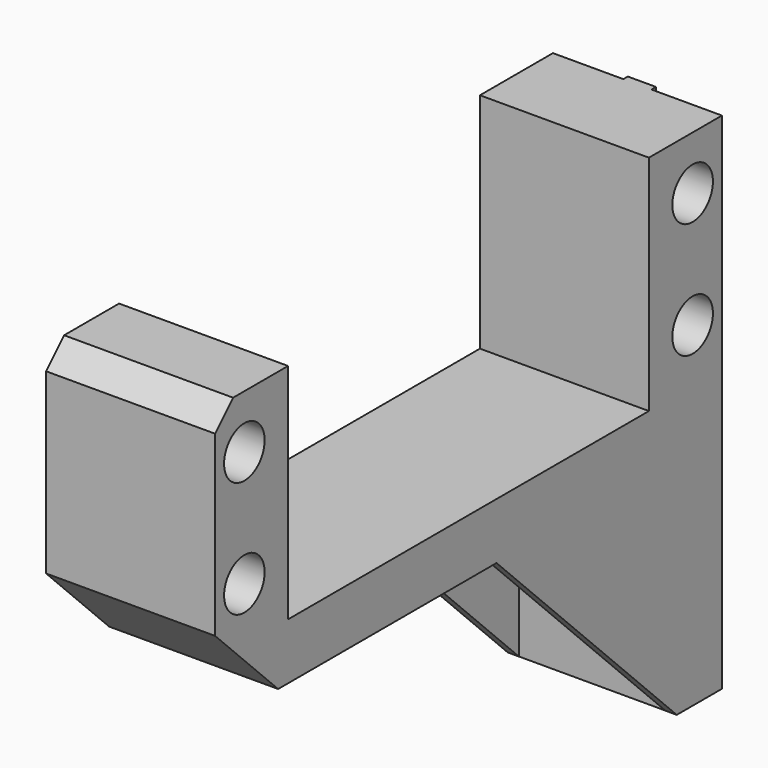
from build123d import *

# Parameters (mm, degrees)
SKETCH019_R             = 2.25
PAD011_DEPTH            = 15
SKETCH020_W             = 20
SKETCH020_H             = 13
POCKET005_DEPTH         = 20
CHAMFER_SIZE            = 19.99
SKETCH021_R             = 1.75
POCKET006_DEPTH         = 5
SKETCH022_W             = 19.8
SKETCH022_H             = 2.5
PAD012_DEPTH            = 0.5
CHAMFER001_SIZE         = 7
CHAMFER002_SIZE         = 2
BODY003_PLACEMENT_ANGLE = 180


with BuildPart() as part:
    # Sketch019 → Pad011 (new body)
    with BuildSketch(Plane.YZ):
        Polygon((-20.02, -9.9), (-28.12, -9.9), (-28.12, 14.9), (3.12, 14.9), (3.12, 34.9), (23.12, 34.9), (28.12, 34.9), (28.12, -9.9), (20.02, -9.9), (20.02, 9.9), (-20.02, 9.9), align=None)
        with Locations((-24.87, -5.15)):
            Circle(SKETCH019_R, mode=Mode.SUBTRACT)
        with Locations((-24.87, 5.15)):
            Circle(SKETCH019_R, mode=Mode.SUBTRACT)
        with Locations((24.87, -5.15)):
            Circle(SKETCH019_R, mode=Mode.SUBTRACT)
        with Locations((24.87, 5.15)):
            Circle(SKETCH019_R, mode=Mode.SUBTRACT)
    extrude(amount=PAD011_DEPTH)

    # Sketch020 (on Face5 of Pad011) → Pocket005 (cut)
    with BuildSketch(Plane(origin=(0, 3.12, 0), x_dir=(0, 0, -1), z_dir=(0, -1, 0))):
        with Locations((-24.9, 7.5)):
            Rectangle(SKETCH020_W, SKETCH020_H)
    extrude(amount=-POCKET005_DEPTH, mode=Mode.SUBTRACT)

    # Chamfer
    chamfer_edges = [part.edges().sort_by_distance(p)[0] for p in [
        (14.5, 3.12, 34.9),
        (0.5, 3.12, 34.9),
    ]]
    chamfer(chamfer_edges, length=CHAMFER_SIZE)

    # Sketch021 (on Face9 of Chamfer) → Pocket006 (cut)
    with BuildSketch(Plane.ZX.offset(28.12)):
        with Locations((19.9, 7.5)):
            Circle(SKETCH021_R)
        with Locations((29.9, 7.5)):
            Circle(SKETCH021_R)
    extrude(amount=-POCKET006_DEPTH, mode=Mode.SUBTRACT)

    # Sketch022 (on Face9 of Pocket006) → Pad012 (join)
    with BuildSketch(Plane.ZX.offset(28.12)):
        with Locations((0, 7.5)):
            Rectangle(SKETCH022_W, SKETCH022_H)
    extrude(amount=PAD012_DEPTH)

    # Chamfer001
    chamfer001_edges = [part.edges().sort_by_distance(p)[0] for p in [
        (7.5, -28.12, 14.9),
    ]]
    chamfer(chamfer001_edges, length=CHAMFER001_SIZE)

    # Chamfer002
    chamfer002_edges = [part.edges().sort_by_distance(p)[0] for p in [
        (7.5, -28.12, -9.9),
    ]]
    chamfer(chamfer002_edges, length=CHAMFER002_SIZE)


with BuildPart() as part_1:
    # Body003 placement: moved
    add(part.part.moved(Location((6.82, 12.82, -27.56))).rotate(Axis((6.82, 12.82, -27.56), (0, 1, 0)), BODY003_PLACEMENT_ANGLE))


solid = part_1.part
